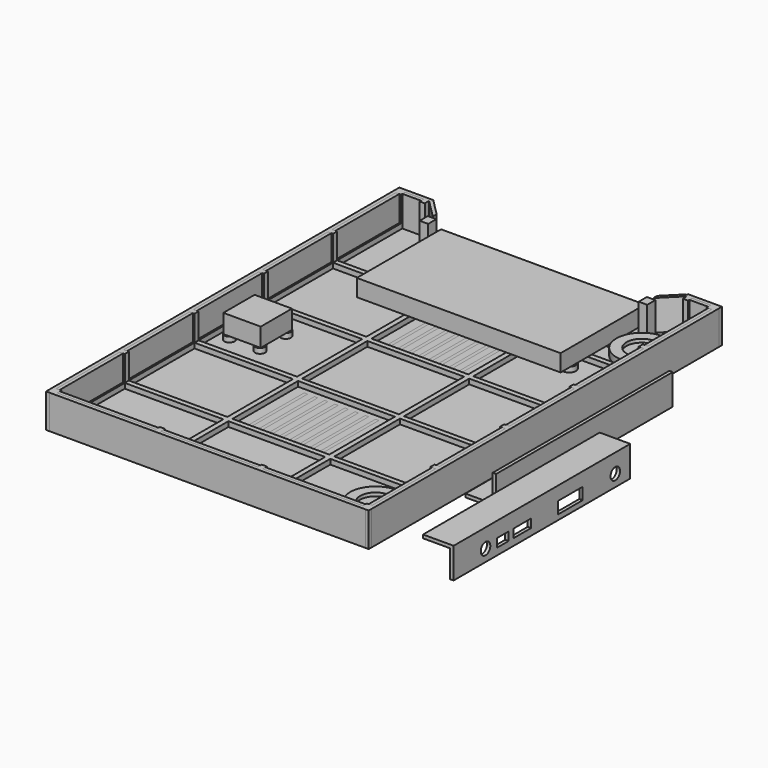
from build123d import *

# Parameters (mm, degrees)
BOX004_W               = 2
BOX004_H               = 130
BOX004_DEPTH           = 18
CYLINDER001_R          = 3.5
CYLINDER001_DEPTH      = 25
BOX001_W               = 7
BOX001_H               = 18
BOX001_DEPTH           = 25
BOX002_W               = 5
BOX002_H               = 13
BOX002_DEPTH           = 25
BOX003_W               = 5
BOX003_H               = 8.5
BOX003_DEPTH           = 25
CYLINDER_R             = 3.5
CYLINDER_DEPTH         = 25
BOX_W                  = 18
BOX_H                  = 130
BOX_DEPTH              = 2
FUSION001_PITCH_ANGLE  = -90
BOX011_W               = 130
BOX011_H               = 30
BOX011_DEPTH           = 25
BOX008_W               = 2
BOX008_H               = 17
BOX008_DEPTH           = 18
BOX008_PLACEMENT_ANGLE = 225
BOX009_W               = 2
BOX009_H               = 16
BOX009_DEPTH           = 18
BOX009_PLACEMENT_ANGLE = 135
BOX007_W               = 150
BOX007_H               = 30
BOX007_DEPTH           = 25
BOX006_W               = 186
BOX006_H               = 256
BOX006_DEPTH           = 18
BOX005_W               = 190
BOX005_H               = 260
BOX005_DEPTH           = 20
BOX014_W               = 154
BOX014_H               = 30
BOX014_DEPTH           = 25
BOX013_W               = 182
BOX013_H               = 252
BOX013_DEPTH           = 20
BOX012_W               = 186
BOX012_H               = 256
BOX012_DEPTH           = 18
BOX040_W               = 120
BOX040_H               = 62
BOX040_DEPTH           = 10
BOX059_W               = 22
BOX059_H               = 23
BOX059_DEPTH           = 11
BOX023_W               = 3
BOX023_H               = 3
BOX023_DEPTH           = 18
BOX024_W               = 3
BOX024_H               = 3
BOX024_DEPTH           = 18
BOX025_W               = 3
BOX025_H               = 3
BOX025_DEPTH           = 18
BOX026_W               = 3
BOX026_H               = 3
BOX026_DEPTH           = 18
BOX027_W               = 3
BOX027_H               = 3
BOX027_DEPTH           = 18
BOX028_W               = 3
BOX028_H               = 254
BOX028_DEPTH           = 3
BOX022_W               = 3
BOX022_H               = 3
BOX022_DEPTH           = 18
BOX029_W               = 3
BOX029_H               = 3
BOX029_DEPTH           = 18
BOX030_W               = 3
BOX030_H               = 3
BOX030_DEPTH           = 18
BOX031_W               = 182
BOX031_H               = 3
BOX031_DEPTH           = 3
BOX032_W               = 182
BOX032_H               = 3
BOX032_DEPTH           = 3
BOX033_W               = 182
BOX033_H               = 3
BOX033_DEPTH           = 3
BOX034_W               = 182
BOX034_H               = 3
BOX034_DEPTH           = 3
BOX035_W               = 182
BOX035_H               = 3
BOX035_DEPTH           = 3
BOX036_W               = 3
BOX036_H               = 243
BOX036_DEPTH           = 3
BOX037_W               = 3
BOX037_H               = 243
BOX037_DEPTH           = 3
BOX038_W               = 3
BOX038_H               = 3
BOX038_DEPTH           = 18
BOX039_W               = 3
BOX039_H               = 3
BOX039_DEPTH           = 18
BOX016_W               = 3
BOX016_H               = 3
BOX016_DEPTH           = 18
BOX017_W               = 3
BOX017_H               = 3
BOX017_DEPTH           = 18
BOX018_W               = 3
BOX018_H               = 3
BOX018_DEPTH           = 18
BOX019_W               = 3
BOX019_H               = 3
BOX019_DEPTH           = 18
BOX020_W               = 3
BOX020_H               = 3
BOX020_DEPTH           = 18
BOX021_W               = 3
BOX021_H               = 254
BOX021_DEPTH           = 3
BOX015_W               = 3
BOX015_H               = 3
BOX015_DEPTH           = 18
BOX042_W               = 5
BOX042_H               = 6
BOX042_DEPTH           = 18
CYLINDER002_R          = 4
CYLINDER002_DEPTH      = 3
CYLINDER003_R          = 4
CYLINDER003_DEPTH      = 3
CYLINDER004_R          = 4
CYLINDER004_DEPTH      = 3
CYLINDER005_R          = 4
CYLINDER005_DEPTH      = 3
BOX041_W               = 5
BOX041_H               = 6
BOX041_DEPTH           = 18
CYLINDER008_R          = 9
CYLINDER008_DEPTH      = 6
CYLINDER009_R          = 15
CYLINDER009_DEPTH      = 4
CYLINDER006_R          = 9
CYLINDER006_DEPTH      = 6
CYLINDER007_R          = 15
CYLINDER007_DEPTH      = 4
BOX052_W               = 2
BOX052_H               = 42
BOX052_DEPTH           = 26
BOX053_W               = 2
BOX053_H               = 42
BOX053_DEPTH           = 26
BOX054_W               = 2
BOX054_H               = 42
BOX054_DEPTH           = 26
BOX055_W               = 2
BOX055_H               = 42
BOX055_DEPTH           = 26
BOX056_W               = 2
BOX056_H               = 42
BOX056_DEPTH           = 26
BOX057_W               = 2
BOX057_H               = 42
BOX057_DEPTH           = 26
BOX058_W               = 2
BOX058_H               = 42
BOX058_DEPTH           = 26
BOX051_W               = 2
BOX051_H               = 42
BOX051_DEPTH           = 26
BOX044_W               = 2
BOX044_H               = 42
BOX044_DEPTH           = 26
BOX045_W               = 2
BOX045_H               = 42
BOX045_DEPTH           = 26
BOX046_W               = 2
BOX046_H               = 42
BOX046_DEPTH           = 26
BOX047_W               = 2
BOX047_H               = 42
BOX047_DEPTH           = 26
BOX048_W               = 2
BOX048_H               = 42
BOX048_DEPTH           = 26
BOX049_W               = 2
BOX049_H               = 42
BOX049_DEPTH           = 26
BOX050_W               = 2
BOX050_H               = 42
BOX050_DEPTH           = 26
BOX043_W               = 2
BOX043_H               = 42
BOX043_DEPTH           = 26
FILLET_R               = 2
CYLINDER011_R          = 3
CYLINDER011_DEPTH      = 3
CYLINDER012_R          = 3
CYLINDER012_DEPTH      = 3
CYLINDER013_R          = 3
CYLINDER013_DEPTH      = 3
CYLINDER010_R          = 3
CYLINDER010_DEPTH      = 3
BOX010_W               = 5
BOX010_H               = 13
BOX010_DEPTH           = 25


with BuildPart() as cube:
    # Box004 → Box004 (new body)
    with BuildSketch(Plane(origin=(16, 0, 0), x_dir=(1, 0, 0), z_dir=(0, 0, 1))):
        with Locations((1, 65)):
            Rectangle(BOX004_W, BOX004_H)
    extrude(amount=BOX004_DEPTH)


with BuildPart() as taladro_headphone:
    # Cylinder001 → Cylinder001 (new body)
    with BuildSketch(Plane(origin=(7, 119, 0), x_dir=(1, 0, 0), z_dir=(0, 0, 1))):
        Circle(CYLINDER001_R)
    extrude(amount=CYLINDER001_DEPTH)


with BuildPart() as box001:
    # Box001 → Box001 (new body)
    with BuildSketch(Plane(origin=(3, 77, 0), x_dir=(1, 0, 0), z_dir=(0, 0, 1))):
        with Locations((3.5, 9)):
            Rectangle(BOX001_W, BOX001_H)
    extrude(amount=BOX001_DEPTH)


with BuildPart() as box002:
    # Box002 → Box002 (new body)
    with BuildSketch(Plane(origin=(4, 44, 0), x_dir=(1, 0, 0), z_dir=(0, 0, 1))):
        with Locations((2.5, 6.5)):
            Rectangle(BOX002_W, BOX002_H)
    extrude(amount=BOX002_DEPTH)


with BuildPart() as micro_usb:
    # Box003 → Box003 (new body)
    with BuildSketch(Plane(origin=(4, 32, 0), x_dir=(1, 0, 0), z_dir=(0, 0, 1))):
        with Locations((2.5, 4.25)):
            Rectangle(BOX003_W, BOX003_H)
    extrude(amount=BOX003_DEPTH)


with BuildPart() as taladro_dc_in:
    # Cylinder → Cylinder (new body)
    with BuildSketch(Plane(origin=(7, 23.5, 0), x_dir=(1, 0, 0), z_dir=(0, 0, 1))):
        Circle(CYLINDER_R)
    extrude(amount=CYLINDER_DEPTH)


with BuildPart() as fusion:
    # Fusion base: copy of taladro dc in
    add(taladro_dc_in.part)

    # Fusion: union taladro headphone, Box001, Box002, micro usb
    add(taladro_headphone.part)
    add(box001.part)
    add(box002.part)
    add(micro_usb.part)


with BuildPart() as fusion_1:
    # Fusion placement: moved
    add(fusion.part.moved(Location((0, 0, -2))))


with BuildPart() as obj1:
    # Box → Box (new body)
    with BuildSketch(Plane.XY):
        with Locations((9, 65)):
            Rectangle(BOX_W, BOX_H)
    extrude(amount=BOX_DEPTH)


with BuildPart() as obj2:
    # Cut base: copy of obj1
    add(obj1.part)

    # Cut: cut Fusion
    add(fusion_1.part, mode=Mode.SUBTRACT)

    # Fusion001: union Cube
    add(cube.part)


with BuildPart() as obj2_1:
    # Fusion001 pitch: moved
    add(obj2.part.rotate(Axis((0, 0, 0), (0, 1, 0)), FUSION001_PITCH_ANGLE))


with BuildPart() as obj2_2:
    # Fusion001 placement: moved
    add(obj2_1.part.moved(Location((240, 0, 0))))


with BuildPart() as obj3:
    # Box011 → Box011 (new body)
    with BuildSketch(Plane(origin=(30, 235, 2), x_dir=(1, 0, 0), z_dir=(0, 0, 1))):
        with Locations((65, 15)):
            Rectangle(BOX011_W, BOX011_H)
    extrude(amount=BOX011_DEPTH)


with BuildPart() as box008:
    # Box008 → Box008 (new body)
    with BuildSketch(Plane.XY):
        with Locations((1, 8.5)):
            Rectangle(BOX008_W, BOX008_H)
    extrude(amount=BOX008_DEPTH)


with BuildPart() as box008_1:
    # Box008 placement: moved
    add(box008.part.moved(Location((20, 260, 2))).rotate(Axis((20, 260, 2), (0, 0, 1)), BOX008_PLACEMENT_ANGLE))


with BuildPart() as box009:
    # Box009 → Box009 (new body)
    with BuildSketch(Plane.XY):
        with Locations((1, 8)):
            Rectangle(BOX009_W, BOX009_H)
    extrude(amount=BOX009_DEPTH)


with BuildPart() as box009_1:
    # Box009 placement: moved
    add(box009.part.moved(Location((171, 258, 2))).rotate(Axis((171, 258, 2), (0, 0, 1)), BOX009_PLACEMENT_ANGLE))


with BuildPart() as obj4:
    # Box007 → Box007 (new body)
    with BuildSketch(Plane(origin=(20, 245, 2), x_dir=(1, 0, 0), z_dir=(0, 0, 1))):
        with Locations((75, 15)):
            Rectangle(BOX007_W, BOX007_H)
    extrude(amount=BOX007_DEPTH)


with BuildPart() as base_dentro:
    # Box006 → Box006 (new body)
    with BuildSketch(Plane(origin=(2, 2, 2), x_dir=(1, 0, 0), z_dir=(0, 0, 1))):
        with Locations((93, 128)):
            Rectangle(BOX006_W, BOX006_H)
    extrude(amount=BOX006_DEPTH)


with BuildPart() as obj5:
    # Box005 → Box005 (new body)
    with BuildSketch(Plane.XY):
        with Locations((95, 130)):
            Rectangle(BOX005_W, BOX005_H)
    extrude(amount=BOX005_DEPTH)

    # Cut001: cut base dentro
    add(base_dentro.part, mode=Mode.SUBTRACT)

    # Cut002: cut obj4
    add(obj4.part, mode=Mode.SUBTRACT)

    # Fusion002: union Box008, Box009
    add(box008_1.part)
    add(box009_1.part)

    # Fusion005: union Box008, Box009
    add(box008_1.part)
    add(box009_1.part)


with BuildPart() as cut004:
    # Cut004 base: copy of obj5
    add(obj5.part)

    # Cut004: cut obj3
    add(obj3.part, mode=Mode.SUBTRACT)


with BuildPart() as obj6:
    # Box014 → Box014 (new body)
    with BuildSketch(Plane(origin=(18, 241, 2), x_dir=(1, 0, 0), z_dir=(0, 0, 1))):
        with Locations((77, 15)):
            Rectangle(BOX014_W, BOX014_H)
    extrude(amount=BOX014_DEPTH)


with BuildPart() as base_dentro001:
    # Box013 → Box013 (new body)
    with BuildSketch(Plane(origin=(4, 4, 2), x_dir=(1, 0, 0), z_dir=(0, 0, 1))):
        with Locations((91, 126)):
            Rectangle(BOX013_W, BOX013_H)
    extrude(amount=BOX013_DEPTH)


with BuildPart() as obj7:
    # Box012 → Box012 (new body)
    with BuildSketch(Plane(origin=(2, 2, 2), x_dir=(1, 0, 0), z_dir=(0, 0, 1))):
        with Locations((93, 128)):
            Rectangle(BOX012_W, BOX012_H)
    extrude(amount=BOX012_DEPTH)

    # Cut006: cut base dentro001
    add(base_dentro001.part, mode=Mode.SUBTRACT)

    # Cut007: cut obj6
    add(obj6.part, mode=Mode.SUBTRACT)


with BuildPart() as obj8:
    # Box040 → Box040 (new body)
    with BuildSketch(Plane(origin=(35, 185, 5), x_dir=(1, 0, 0), z_dir=(0, 0, 1))):
        with Locations((60, 31)):
            Rectangle(BOX040_W, BOX040_H)
    extrude(amount=BOX040_DEPTH)


with BuildPart() as amp1:
    # Box059 → Box059 (new body)
    with BuildSketch(Plane(origin=(10, 118, 5), x_dir=(1, 0, 0), z_dir=(0, 0, 1))):
        with Locations((11, 11.5)):
            Rectangle(BOX059_W, BOX059_H)
    extrude(amount=BOX059_DEPTH)


with BuildPart() as obj9:
    # Box023 → Box023 (new body)
    with BuildSketch(Plane(origin=(2, 51.7, 2), x_dir=(1, 0, 0), z_dir=(0, 0, 1))):
        with Locations((1.5, 1.5)):
            Rectangle(BOX023_W, BOX023_H)
    extrude(amount=BOX023_DEPTH)


with BuildPart() as obj10:
    # Box024 → Box024 (new body)
    with BuildSketch(Plane(origin=(2, 103, 2), x_dir=(1, 0, 0), z_dir=(0, 0, 1))):
        with Locations((1.5, 1.5)):
            Rectangle(BOX024_W, BOX024_H)
    extrude(amount=BOX024_DEPTH)


with BuildPart() as obj11:
    # Box025 → Box025 (new body)
    with BuildSketch(Plane(origin=(2, 154, 2), x_dir=(1, 0, 0), z_dir=(0, 0, 1))):
        with Locations((1.5, 1.5)):
            Rectangle(BOX025_W, BOX025_H)
    extrude(amount=BOX025_DEPTH)


with BuildPart() as obj12:
    # Box026 → Box026 (new body)
    with BuildSketch(Plane(origin=(2, 205, 2), x_dir=(1, 0, 0), z_dir=(0, 0, 1))):
        with Locations((1.5, 1.5)):
            Rectangle(BOX026_W, BOX026_H)
    extrude(amount=BOX026_DEPTH)


with BuildPart() as obj13:
    # Box027 → Box027 (new body)
    with BuildSketch(Plane(origin=(2, 255, 2), x_dir=(1, 0, 0), z_dir=(0, 0, 1))):
        with Locations((1.5, 1.5)):
            Rectangle(BOX027_W, BOX027_H)
    extrude(amount=BOX027_DEPTH)


with BuildPart() as obj14:
    # Box028 → Box028 (new body)
    with BuildSketch(Plane(origin=(2, 2, 2), x_dir=(1, 0, 0), z_dir=(0, 0, 1))):
        with Locations((1.5, 127)):
            Rectangle(BOX028_W, BOX028_H)
    extrude(amount=BOX028_DEPTH)


with BuildPart() as obj15:
    # Box022 → Box022 (new body)
    with BuildSketch(Plane(origin=(2, 2, 2), x_dir=(1, 0, 0), z_dir=(0, 0, 1))):
        with Locations((1.5, 1.5)):
            Rectangle(BOX022_W, BOX022_H)
    extrude(amount=BOX022_DEPTH)

    # Fusion007: union obj9, obj10, obj11, obj12, obj13, obj14
    add(obj9.part)
    add(obj10.part)
    add(obj11.part)
    add(obj12.part)
    add(obj13.part)
    add(obj14.part)


with BuildPart() as obj15_1:
    # Fusion007 placement: moved
    add(obj15.part.moved(Location((183, 0, 0))))


with BuildPart() as obj16:
    # Box029 → Box029 (new body)
    with BuildSketch(Plane(origin=(63, 2, 2), x_dir=(1, 0, 0), z_dir=(0, 0, 1))):
        with Locations((1.5, 1.5)):
            Rectangle(BOX029_W, BOX029_H)
    extrude(amount=BOX029_DEPTH)


with BuildPart() as obj17:
    # Box030 → Box030 (new body)
    with BuildSketch(Plane(origin=(123, 2, 2), x_dir=(1, 0, 0), z_dir=(0, 0, 1))):
        with Locations((1.5, 1.5)):
            Rectangle(BOX030_W, BOX030_H)
    extrude(amount=BOX030_DEPTH)


with BuildPart() as obj18:
    # Box031 → Box031 (new body)
    with BuildSketch(Plane(origin=(2, 2, 2), x_dir=(1, 0, 0), z_dir=(0, 0, 1))):
        with Locations((91, 1.5)):
            Rectangle(BOX031_W, BOX031_H)
    extrude(amount=BOX031_DEPTH)


with BuildPart() as obj19:
    # Box032 → Box032 (new body)
    with BuildSketch(Plane(origin=(2, 51.7, 2), x_dir=(1, 0, 0), z_dir=(0, 0, 1))):
        with Locations((91, 1.5)):
            Rectangle(BOX032_W, BOX032_H)
    extrude(amount=BOX032_DEPTH)


with BuildPart() as obj20:
    # Box033 → Box033 (new body)
    with BuildSketch(Plane(origin=(2, 103, 2), x_dir=(1, 0, 0), z_dir=(0, 0, 1))):
        with Locations((91, 1.5)):
            Rectangle(BOX033_W, BOX033_H)
    extrude(amount=BOX033_DEPTH)


with BuildPart() as obj21:
    # Box034 → Box034 (new body)
    with BuildSketch(Plane(origin=(2, 154, 2), x_dir=(1, 0, 0), z_dir=(0, 0, 1))):
        with Locations((91, 1.5)):
            Rectangle(BOX034_W, BOX034_H)
    extrude(amount=BOX034_DEPTH)


with BuildPart() as obj22:
    # Box035 → Box035 (new body)
    with BuildSketch(Plane(origin=(2, 205, 2), x_dir=(1, 0, 0), z_dir=(0, 0, 1))):
        with Locations((91, 1.5)):
            Rectangle(BOX035_W, BOX035_H)
    extrude(amount=BOX035_DEPTH)


with BuildPart() as box036:
    # Box036 → Box036 (new body)
    with BuildSketch(Plane(origin=(63, 2, 2), x_dir=(1, 0, 0), z_dir=(0, 0, 1))):
        with Locations((1.5, 121.5)):
            Rectangle(BOX036_W, BOX036_H)
    extrude(amount=BOX036_DEPTH)


with BuildPart() as box037:
    # Box037 → Box037 (new body)
    with BuildSketch(Plane(origin=(123, 2, 2), x_dir=(1, 0, 0), z_dir=(0, 0, 1))):
        with Locations((1.5, 121.5)):
            Rectangle(BOX037_W, BOX037_H)
    extrude(amount=BOX037_DEPTH)


with BuildPart() as obj23:
    # Box038 → Box038 (new body)
    with BuildSketch(Plane(origin=(16, 255, 2), x_dir=(1, 0, 0), z_dir=(0, 0, 1))):
        with Locations((1.5, 1.5)):
            Rectangle(BOX038_W, BOX038_H)
    extrude(amount=BOX038_DEPTH)


with BuildPart() as obj24:
    # Box039 → Box039 (new body)
    with BuildSketch(Plane(origin=(171, 255, 2), x_dir=(1, 0, 0), z_dir=(0, 0, 1))):
        with Locations((1.5, 1.5)):
            Rectangle(BOX039_W, BOX039_H)
    extrude(amount=BOX039_DEPTH)


with BuildPart() as obj25:
    # Box016 → Box016 (new body)
    with BuildSketch(Plane(origin=(2, 51.7, 2), x_dir=(1, 0, 0), z_dir=(0, 0, 1))):
        with Locations((1.5, 1.5)):
            Rectangle(BOX016_W, BOX016_H)
    extrude(amount=BOX016_DEPTH)


with BuildPart() as obj26:
    # Box017 → Box017 (new body)
    with BuildSketch(Plane(origin=(2, 103, 2), x_dir=(1, 0, 0), z_dir=(0, 0, 1))):
        with Locations((1.5, 1.5)):
            Rectangle(BOX017_W, BOX017_H)
    extrude(amount=BOX017_DEPTH)


with BuildPart() as obj27:
    # Box018 → Box018 (new body)
    with BuildSketch(Plane(origin=(2, 154, 2), x_dir=(1, 0, 0), z_dir=(0, 0, 1))):
        with Locations((1.5, 1.5)):
            Rectangle(BOX018_W, BOX018_H)
    extrude(amount=BOX018_DEPTH)


with BuildPart() as obj28:
    # Box019 → Box019 (new body)
    with BuildSketch(Plane(origin=(2, 205, 2), x_dir=(1, 0, 0), z_dir=(0, 0, 1))):
        with Locations((1.5, 1.5)):
            Rectangle(BOX019_W, BOX019_H)
    extrude(amount=BOX019_DEPTH)


with BuildPart() as obj29:
    # Box020 → Box020 (new body)
    with BuildSketch(Plane(origin=(2, 255, 2), x_dir=(1, 0, 0), z_dir=(0, 0, 1))):
        with Locations((1.5, 1.5)):
            Rectangle(BOX020_W, BOX020_H)
    extrude(amount=BOX020_DEPTH)


with BuildPart() as obj30:
    # Box021 → Box021 (new body)
    with BuildSketch(Plane(origin=(2, 2, 2), x_dir=(1, 0, 0), z_dir=(0, 0, 1))):
        with Locations((1.5, 127)):
            Rectangle(BOX021_W, BOX021_H)
    extrude(amount=BOX021_DEPTH)


with BuildPart() as obj31:
    # Box015 → Box015 (new body)
    with BuildSketch(Plane(origin=(2, 2, 2), x_dir=(1, 0, 0), z_dir=(0, 0, 1))):
        with Locations((1.5, 1.5)):
            Rectangle(BOX015_W, BOX015_H)
    extrude(amount=BOX015_DEPTH)

    # Fusion006: union obj25, obj26, obj27, obj28, obj29, obj30
    add(obj25.part)
    add(obj26.part)
    add(obj27.part)
    add(obj28.part)
    add(obj29.part)
    add(obj30.part)

    # Fusion008: union obj15, obj16, obj17, obj18, obj19, obj20, obj21, obj22, Box036, Box037, obj23, obj24
    add(obj15_1.part)
    add(obj16.part)
    add(obj17.part)
    add(obj18.part)
    add(obj19.part)
    add(obj20.part)
    add(obj21.part)
    add(obj22.part)
    add(box036.part)
    add(box037.part)
    add(obj23.part)
    add(obj24.part)


with BuildPart() as tornillo2_tapa:
    # Box042 → Box042 (new body)
    with BuildSketch(Plane(origin=(157, 240, 2), x_dir=(1, 0, 0), z_dir=(0, 0, 1))):
        with Locations((2.5, 3)):
            Rectangle(BOX042_W, BOX042_H)
    extrude(amount=BOX042_DEPTH)


with BuildPart() as tornillo_control1:
    # Cylinder002 → Cylinder002 (new body)
    with BuildSketch(Plane(origin=(152, 195, 2), x_dir=(1, 0, 0), z_dir=(0, 0, 1))):
        Circle(CYLINDER002_R)
    extrude(amount=CYLINDER002_DEPTH)


with BuildPart() as tornillo_control2:
    # Cylinder003 → Cylinder003 (new body)
    with BuildSketch(Plane(origin=(38, 195, 2), x_dir=(1, 0, 0), z_dir=(0, 0, 1))):
        Circle(CYLINDER003_R)
    extrude(amount=CYLINDER003_DEPTH)


with BuildPart() as tornillo_control3:
    # Cylinder004 → Cylinder004 (new body)
    with BuildSketch(Plane(origin=(152, 227, 2), x_dir=(1, 0, 0), z_dir=(0, 0, 1))):
        Circle(CYLINDER004_R)
    extrude(amount=CYLINDER004_DEPTH)


with BuildPart() as tornillo_control004:
    # Cylinder005 → Cylinder005 (new body)
    with BuildSketch(Plane(origin=(38, 227, 2), x_dir=(1, 0, 0), z_dir=(0, 0, 1))):
        Circle(CYLINDER005_R)
    extrude(amount=CYLINDER005_DEPTH)


with BuildPart() as obj32:
    # Box041 → Box041 (new body)
    with BuildSketch(Plane(origin=(28, 240, 2), x_dir=(1, 0, 0), z_dir=(0, 0, 1))):
        with Locations((2.5, 3)):
            Rectangle(BOX041_W, BOX041_H)
    extrude(amount=BOX041_DEPTH)

    # Fusion009: union tornillo2 tapa, tornillo control1, tornillo control2, tornillo control3, tornillo control004
    add(tornillo2_tapa.part)
    add(tornillo_control1.part)
    add(tornillo_control2.part)
    add(tornillo_control3.part)
    add(tornillo_control004.part)


with BuildPart() as cylinder010:
    # Cylinder008 → Cylinder008 (new body)
    with BuildSketch(Plane.XY.offset(4)):
        Circle(CYLINDER008_R)
    extrude(amount=CYLINDER008_DEPTH)


with BuildPart() as obj33:
    # Cylinder009 → Cylinder009 (new body)
    with BuildSketch(Plane.XY.offset(2)):
        Circle(CYLINDER009_R)
    extrude(amount=CYLINDER009_DEPTH)

    # Cut009: cut Cylinder010
    add(cylinder010.part, mode=Mode.SUBTRACT)


with BuildPart() as obj33_1:
    # Cut009 placement: moved
    add(obj33.part.moved(Location((170, 30, 0))))


with BuildPart() as cylinder:
    # Cylinder006 → Cylinder006 (new body)
    with BuildSketch(Plane.XY.offset(4)):
        Circle(CYLINDER006_R)
    extrude(amount=CYLINDER006_DEPTH)


with BuildPart() as obj34:
    # Cylinder007 → Cylinder007 (new body)
    with BuildSketch(Plane.XY.offset(2)):
        Circle(CYLINDER007_R)
    extrude(amount=CYLINDER007_DEPTH)

    # Cut008: cut Cylinder
    add(cylinder.part, mode=Mode.SUBTRACT)


with BuildPart() as obj34_1:
    # Cut008 placement: moved
    add(obj34.part.moved(Location((170, 226, 0))))

    # Fusion010: union obj33
    add(obj33_1.part)


with BuildPart() as obj35:
    # Box052 → Box052 (new body)
    with BuildSketch(Plane(origin=(78, 58, -2), x_dir=(1, 0, 0), z_dir=(0, 0, 1))):
        with Locations((1, 21)):
            Rectangle(BOX052_W, BOX052_H)
    extrude(amount=BOX052_DEPTH)


with BuildPart() as obj36:
    # Box053 → Box053 (new body)
    with BuildSketch(Plane(origin=(84, 58, -2), x_dir=(1, 0, 0), z_dir=(0, 0, 1))):
        with Locations((1, 21)):
            Rectangle(BOX053_W, BOX053_H)
    extrude(amount=BOX053_DEPTH)


with BuildPart() as obj37:
    # Box054 → Box054 (new body)
    with BuildSketch(Plane(origin=(90, 58, -2), x_dir=(1, 0, 0), z_dir=(0, 0, 1))):
        with Locations((1, 21)):
            Rectangle(BOX054_W, BOX054_H)
    extrude(amount=BOX054_DEPTH)


with BuildPart() as obj38:
    # Box055 → Box055 (new body)
    with BuildSketch(Plane(origin=(96, 58, -2), x_dir=(1, 0, 0), z_dir=(0, 0, 1))):
        with Locations((1, 21)):
            Rectangle(BOX055_W, BOX055_H)
    extrude(amount=BOX055_DEPTH)


with BuildPart() as obj39:
    # Box056 → Box056 (new body)
    with BuildSketch(Plane(origin=(102, 58, -2), x_dir=(1, 0, 0), z_dir=(0, 0, 1))):
        with Locations((1, 21)):
            Rectangle(BOX056_W, BOX056_H)
    extrude(amount=BOX056_DEPTH)


with BuildPart() as obj40:
    # Box057 → Box057 (new body)
    with BuildSketch(Plane(origin=(108, 58, -2), x_dir=(1, 0, 0), z_dir=(0, 0, 1))):
        with Locations((1, 21)):
            Rectangle(BOX057_W, BOX057_H)
    extrude(amount=BOX057_DEPTH)


with BuildPart() as obj41:
    # Box058 → Box058 (new body)
    with BuildSketch(Plane(origin=(114, 58, -2), x_dir=(1, 0, 0), z_dir=(0, 0, 1))):
        with Locations((1, 21)):
            Rectangle(BOX058_W, BOX058_H)
    extrude(amount=BOX058_DEPTH)


with BuildPart() as obj42:
    # Box051 → Box051 (new body)
    with BuildSketch(Plane(origin=(72, 58, -2), x_dir=(1, 0, 0), z_dir=(0, 0, 1))):
        with Locations((1, 21)):
            Rectangle(BOX051_W, BOX051_H)
    extrude(amount=BOX051_DEPTH)

    # Fusion012: union obj35, obj36, obj37, obj38, obj39, obj40, obj41
    add(obj35.part)
    add(obj36.part)
    add(obj37.part)
    add(obj38.part)
    add(obj39.part)
    add(obj40.part)
    add(obj41.part)


with BuildPart() as obj42_1:
    # Fusion012 placement: moved
    add(obj42.part.moved(Location((0, 102, 0))))


with BuildPart() as obj43:
    # Box044 → Box044 (new body)
    with BuildSketch(Plane(origin=(78, 58, -2), x_dir=(1, 0, 0), z_dir=(0, 0, 1))):
        with Locations((1, 21)):
            Rectangle(BOX044_W, BOX044_H)
    extrude(amount=BOX044_DEPTH)


with BuildPart() as obj44:
    # Box045 → Box045 (new body)
    with BuildSketch(Plane(origin=(84, 58, -2), x_dir=(1, 0, 0), z_dir=(0, 0, 1))):
        with Locations((1, 21)):
            Rectangle(BOX045_W, BOX045_H)
    extrude(amount=BOX045_DEPTH)


with BuildPart() as obj45:
    # Box046 → Box046 (new body)
    with BuildSketch(Plane(origin=(90, 58, -2), x_dir=(1, 0, 0), z_dir=(0, 0, 1))):
        with Locations((1, 21)):
            Rectangle(BOX046_W, BOX046_H)
    extrude(amount=BOX046_DEPTH)


with BuildPart() as obj46:
    # Box047 → Box047 (new body)
    with BuildSketch(Plane(origin=(96, 58, -2), x_dir=(1, 0, 0), z_dir=(0, 0, 1))):
        with Locations((1, 21)):
            Rectangle(BOX047_W, BOX047_H)
    extrude(amount=BOX047_DEPTH)


with BuildPart() as obj47:
    # Box048 → Box048 (new body)
    with BuildSketch(Plane(origin=(102, 58, -2), x_dir=(1, 0, 0), z_dir=(0, 0, 1))):
        with Locations((1, 21)):
            Rectangle(BOX048_W, BOX048_H)
    extrude(amount=BOX048_DEPTH)


with BuildPart() as obj48:
    # Box049 → Box049 (new body)
    with BuildSketch(Plane(origin=(108, 58, -2), x_dir=(1, 0, 0), z_dir=(0, 0, 1))):
        with Locations((1, 21)):
            Rectangle(BOX049_W, BOX049_H)
    extrude(amount=BOX049_DEPTH)


with BuildPart() as obj49:
    # Box050 → Box050 (new body)
    with BuildSketch(Plane(origin=(114, 58, -2), x_dir=(1, 0, 0), z_dir=(0, 0, 1))):
        with Locations((1, 21)):
            Rectangle(BOX050_W, BOX050_H)
    extrude(amount=BOX050_DEPTH)


with BuildPart() as obj50:
    # Box043 → Box043 (new body)
    with BuildSketch(Plane(origin=(72, 58, -2), x_dir=(1, 0, 0), z_dir=(0, 0, 1))):
        with Locations((1, 21)):
            Rectangle(BOX043_W, BOX043_H)
    extrude(amount=BOX043_DEPTH)

    # Fusion011: union obj43, obj44, obj45, obj46, obj47, obj48, obj49
    add(obj43.part)
    add(obj44.part)
    add(obj45.part)
    add(obj46.part)
    add(obj47.part)
    add(obj48.part)
    add(obj49.part)

    # Fusion013: union obj42
    add(obj42_1.part)


with BuildPart() as obj51:
    # Cut005 base: copy of obj5
    add(obj5.part)

    # Cut005: cut obj3
    add(obj3.part, mode=Mode.SUBTRACT)

    # Fillet
    fillet_edges = [obj51.edges().sort_by_distance(p)[0] for p in [
        (0, 0, 10),
        (0, 260, 10),
        (190, 0, 10),
        (190, 260, 10),
    ]]
    fillet(fillet_edges, radius=FILLET_R)

    # Cut010: cut obj50
    add(obj50.part, mode=Mode.SUBTRACT)


with BuildPart() as torn2_amp:
    # Cylinder011 → Cylinder011 (new body)
    with BuildSketch(Plane(origin=(2, 21, 2), x_dir=(1, 0, 0), z_dir=(0, 0, 1))):
        Circle(CYLINDER011_R)
    extrude(amount=CYLINDER011_DEPTH)


with BuildPart() as torn3_amp:
    # Cylinder012 → Cylinder012 (new body)
    with BuildSketch(Plane(origin=(20, 2, 2), x_dir=(1, 0, 0), z_dir=(0, 0, 1))):
        Circle(CYLINDER012_R)
    extrude(amount=CYLINDER012_DEPTH)


with BuildPart() as torn4_amp:
    # Cylinder013 → Cylinder013 (new body)
    with BuildSketch(Plane(origin=(20, 21, 2), x_dir=(1, 0, 0), z_dir=(0, 0, 1))):
        Circle(CYLINDER013_R)
    extrude(amount=CYLINDER013_DEPTH)


with BuildPart() as fusion014:
    # Cylinder010 → Cylinder010 (new body)
    with BuildSketch(Plane(origin=(2, 2, 2), x_dir=(1, 0, 0), z_dir=(0, 0, 1))):
        Circle(CYLINDER010_R)
    extrude(amount=CYLINDER010_DEPTH)

    # Fusion014: union torn2 amp, torn3 amp, torn4 amp
    add(torn2_amp.part)
    add(torn3_amp.part)
    add(torn4_amp.part)


with BuildPart() as fusion014_1:
    # Fusion014 placement: moved
    add(fusion014.part.moved(Location((10, 118, 0))))


with BuildPart() as box010:
    # Box010 → Box010 (new body)
    with BuildSketch(Plane(origin=(4, 62, 0), x_dir=(1, 0, 0), z_dir=(0, 0, 1))):
        with Locations((2.5, 6.5)):
            Rectangle(BOX010_W, BOX010_H)
    extrude(amount=BOX010_DEPTH)


with BuildPart() as fusion003:
    # Fusion003 base: copy of taladro dc in
    add(taladro_dc_in.part)

    # Fusion003: union taladro headphone, Box001, Box002, micro usb, Box010
    add(taladro_headphone.part)
    add(box001.part)
    add(box002.part)
    add(micro_usb.part)
    add(box010.part)


with BuildPart() as obj52:
    # Cut003 base: copy of obj1
    add(obj1.part)

    # Cut003: cut Fusion003
    add(fusion003.part, mode=Mode.SUBTRACT)

    # Fusion004: union Cube
    add(cube.part)


with BuildPart() as obj52_1:
    # Fusion004 placement: moved
    add(obj52.part.moved(Location((195, 65, 2))))

    # Fusion015: union obj31, obj32, obj34, obj51, Fusion014
    add(obj31.part)
    add(obj32.part)
    add(obj34_1.part)
    add(obj51.part)
    add(fusion014_1.part)


solid = Compound([obj2_2.part, cut004.part, obj7.part, obj8.part, amp1.part, obj52_1.part])
